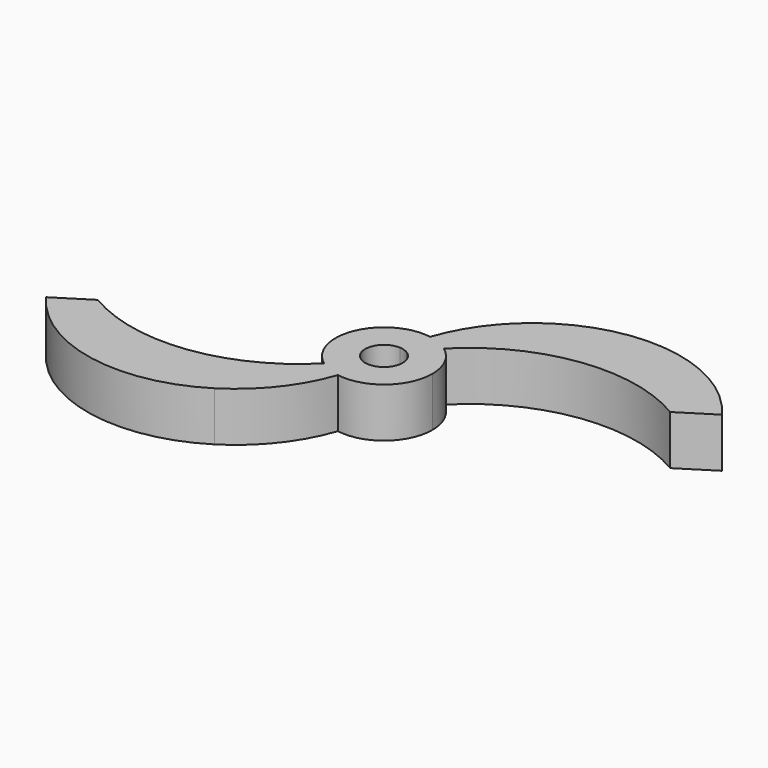
from build123d import *

# Parameters (mm, degrees)
F1_DEPTH = 5


with BuildPart() as f1:
    # F0 (on Top) → F1 (new body)
    with BuildSketch(Plane.XY):
        with BuildLine():
            ThreePointArc((-7.0000001151, -12.688577613), (-3.2259131968, -9.2935934897), (-0.8003333333, -4.8341976124))
            ThreePointArc((-0.8003333333, -4.8341976124), (-1.9050962629, -4.5144887007), (-2.9049071205, -3.9460758509))
            ThreePointArc((-2.9049071205, -3.9460758509), (-12.814429581, -8.8589229177), (-23.6491115752, -6.635329479))
            Line((-23.6491115752, -6.635329479), (-27.1270159685, -8.8281075945))
            ThreePointArc((-27.1270159685, -8.8281075945), (-17.8255747432, -14.7314672511), (-7.0000001151, -12.688577613))
        make_face()
        with BuildLine():
            ThreePointArc((-0.8003333333, -4.8341976124), (-0.3863117112, -3.382323846), (-0.1203333333, -1.8961856156))
            ThreePointArc((-0.1203333333, -1.8961856156), (-0.5698724421, -1.8125245929), (-0.9864055845, -1.623885471))
            ThreePointArc((-0.9864055845, -1.623885471), (-1.8941223069, -2.8275560443), (-2.9049071205, -3.9460758509))
            ThreePointArc((-2.9049071205, -3.9460758509), (-1.9050962629, -4.5144887007), (-0.8003333333, -4.8341976124))
        make_face()
        with BuildLine():
            ThreePointArc((0.9864055845, 1.623885471), (1.6559243054, 0.9316193937), (1.9, 0))
            ThreePointArc((1.9, 0), (1.300262794, -1.3853940474), (-0.1203333333, -1.8961856156))
            ThreePointArc((-0.1203333333, -1.8961856156), (-0.3863117112, -3.382323846), (-0.8003333333, -4.8341976124))
            ThreePointArc((-0.8003333333, -4.8341976124), (3.1692559589, -3.737086655), (4.9, 0))
            ThreePointArc((4.9, 0), (4.3728734769, 2.2108771008), (2.9049071205, 3.9460758509))
            ThreePointArc((2.9049071205, 3.9460758509), (1.8941223069, 2.8275560443), (0.9864055845, 1.623885471))
        make_face()
        with BuildLine():
            ThreePointArc((-0.9864055845, -1.623885471), (-1.8125245929, 0.5698724421), (0.1203333333, 1.8961856156))
            ThreePointArc((0.1203333333, 1.8961856156), (0.3863117112, 3.382323846), (0.8003333333, 4.8341976124))
            ThreePointArc((0.8003333333, 4.8341976124), (-4.5144887007, 1.9050962629), (-2.9049071205, -3.9460758509))
            ThreePointArc((-2.9049071205, -3.9460758509), (-1.8941223069, -2.8275560443), (-0.9864055845, -1.623885471))
        make_face()
        with BuildLine():
            ThreePointArc((0.1203333333, 1.8961856156), (0.5698724421, 1.8125245929), (0.9864055845, 1.623885471))
            ThreePointArc((0.9864055845, 1.623885471), (1.8941223069, 2.8275560443), (2.9049071205, 3.9460758509))
            ThreePointArc((2.9049071205, 3.9460758509), (1.9050962629, 4.5144887007), (0.8003333333, 4.8341976124))
            ThreePointArc((0.8003333333, 4.8341976124), (0.3863117112, 3.382323846), (0.1203333333, 1.8961856156))
        make_face()
        with BuildLine():
            ThreePointArc((0.8003333333, 4.8341976124), (1.9050962629, 4.5144887007), (2.9049071205, 3.9460758509))
            ThreePointArc((2.9049071205, 3.9460758509), (12.814429581, 8.8589229177), (23.6491115752, 6.635329479))
            Line((23.6491115752, 6.635329479), (27.1270159685, 8.8281075945))
            ThreePointArc((27.1270159685, 8.8281075945), (17.8255747198, 14.7314672556), (7.0000000748, 12.6885775876))
            ThreePointArc((7.0000000748, 12.6885775876), (3.225913182, 9.2935934709), (0.8003333333, 4.8341976124))
        make_face()
    extrude(amount=F1_DEPTH)


solid = f1.part
